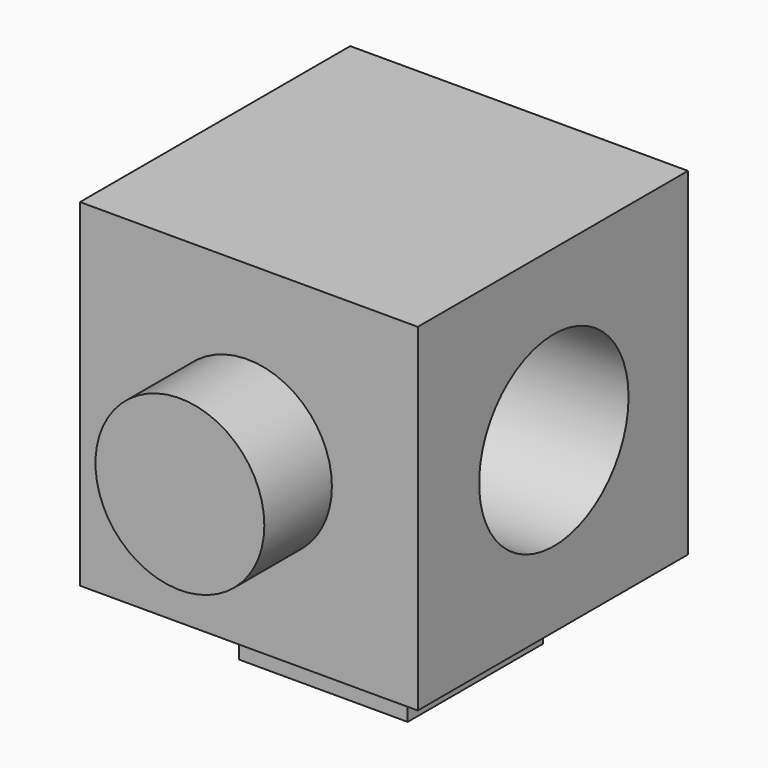
from build123d import *

# Parameters (mm, degrees)
F0_W     = 50.8
F0_H     = 50.8
F1_DEPTH = 50.8
F2_R     = 12.7
F3_DEPTH = 12.7
F4_R     = 14.045612
F5_DEPTH = 50.8
F6_W     = 25.4
F6_H     = 25.4
F7_DEPTH = 12.7


with BuildPart() as f1:
    # F0 (on Front) → F1 (new body)
    with BuildSketch(Plane.XZ):
        with Locations((25.4, 25.4)):
            Rectangle(F0_W, F0_H)
    extrude(amount=F1_DEPTH)

    # F2 (on face) → F3 (join)
    with BuildSketch(Plane.XZ.offset(50.8)):
        with Locations((25.183003, 25.47081)):
            Circle(F2_R)
    extrude(amount=F3_DEPTH)

    # F4 (on face) → F5 (cut)
    with BuildSketch(Plane.YZ.offset(50.8)):
        with Locations((-25.221433, 25.4)):
            Circle(F4_R)
    extrude(amount=-F5_DEPTH, mode=Mode.SUBTRACT)

    # F6 (on face) → F7 (join)
    with BuildSketch(Plane(origin=(0, 0, 0), x_dir=(1, 0, 0), z_dir=(0, 0, -1))):
        with Locations((23.752804, 22.052956)):
            Rectangle(F6_W, F6_H)
    extrude(amount=F7_DEPTH)


solid = f1.part
